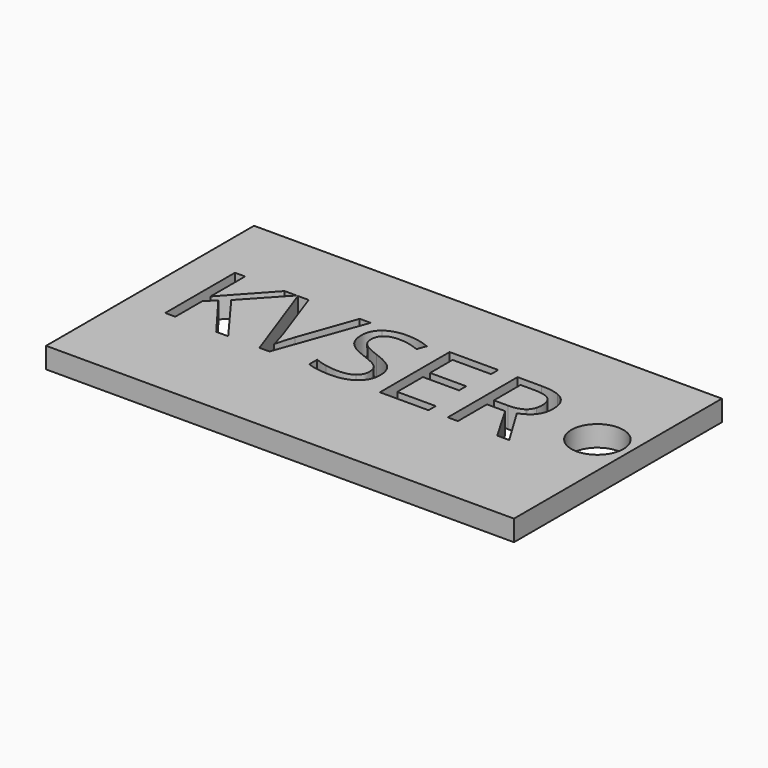
from build123d import *

# Parameters (mm, degrees)
F1_DEPTH = 2.54
F0_W     = 57.15
F0_H     = 31.75
F0_R     = 3.175


with BuildPart() as f1:
    # F0 (on Top) → F1 (new body)
    with BuildSketch(Plane.XY):
        with BuildLine():
            Line((-18.2756781968, 20.786606901), (-18.2756781968, 19.4800253958))
            Line((-18.2756781968, 19.4800253958), (-18.2756781968, 18.3623470366))
            Line((-18.2756781968, 18.3623470366), (-18.2756781968, 16.7147622153))
            Line((-18.2756781968, 16.7147622153), (-16.5765512501, 16.7147622153))
            add(Edge.make_bspline(
                [(-16.5765512501, 16.7147622153), (-15.3293934084, 16.7147622153), (-14.7150388735, 17.1869877213)],
                knots=[0, 0, 0, 0.9521092994, 0.9521092994, 0.9521092994], degree=2))
            add(Edge.make_bspline(
                [(-14.7150388735, 17.1869877213), (-14.6841370967, 17.2107404673), (-14.6548363426, 17.2356879665)],
                knots=[0.9521092994, 0.9521092994, 0.9521092994, 1, 1, 1], degree=2))
            add(Edge.make_bspline(
                [(-14.6548363426, 17.2356879665), (-14.2795364488, 17.555229019), (-14.1344492538, 18.0707797408)],
                knots=[0, 0, 0, 0.613409976, 0.613409976, 0.613409976], degree=2))
            add(Edge.make_bspline(
                [(-14.1344492538, 18.0707797408), (-14.043010796, 18.3956958226), (-14.043010796, 18.7984652199)],
                knots=[0.613409976, 0.613409976, 0.613409976, 1, 1, 1], degree=2))
            add(Edge.make_bspline(
                [(-14.043010796, 18.7984652199), (-14.043010796, 19.4699240171), (-14.2946946146, 19.9028959001)],
                knots=[0, 0, 0, 0.6359498468, 0.6359498468, 0.6359498468], degree=2))
            add(Edge.make_bspline(
                [(-14.2946946146, 19.9028959001), (-14.4387712791, 20.1507511062), (-14.6653247806, 20.3204541035)],
                knots=[0.6359498468, 0.6359498468, 0.6359498468, 1, 1, 1], degree=2))
            add(Edge.make_bspline(
                [(-14.6653247806, 20.3204541035), (-14.8932302371, 20.4911698013), (-15.2224180123, 20.5993655494)],
                knots=[0, 0, 0, 0.3662226179, 0.3662226179, 0.3662226179], degree=2))
            add(Edge.make_bspline(
                [(-15.2224180123, 20.5993655494), (-15.7921036522, 20.786606901), (-16.6651202816, 20.786606901)],
                knots=[0.3662226179, 0.3662226179, 0.3662226179, 1, 1, 1], degree=2))
            Line((-16.6651202816, 20.786606901), (-18.2756781968, 20.786606901))
        make_face()
    extrude(amount=F1_DEPTH)


with BuildPart() as f1b:
    # F0 (on Top) → F1, piece 2 (new body)
    with BuildSketch(Plane.XY):
        with Locations((-30.0933175445, 14.7100100294)):
            Rectangle(F0_W, F0_H)
        Polygon((-50.7805127623, 17.2461764044), (-46.3380766027, 11.2234822615), (-47.7948040947, 11.2234822615), (-51.6755261334, 16.3884552571), (-52.7919620833, 15.3978805626), (-52.7919620833, 11.2234822615), (-54.0295977605, 11.2234822615), (-54.0295977605, 21.872742919), (-52.7919620833, 21.872742919), (-52.7919620833, 16.591231724), (-47.9626191018, 21.872742919), (-46.4988993178, 21.872742919), align=None, mode=Mode.SUBTRACT)
        with BuildLine():
            Line((-41.2243804148, 15.0249583246), (-38.7910628121, 21.872742919))
            Line((-38.7910628121, 21.872742919), (-37.4601965754, 21.872742919))
            Line((-37.4601965754, 21.872742919), (-41.2966340984, 11.2234822615))
            Line((-41.2966340984, 11.2234822615), (-42.5202851917, 11.2234822615))
            Line((-42.5202851917, 11.2234822615), (-46.3380766027, 21.872742919))
            Line((-46.3380766027, 21.872742919), (-45.0258564779, 21.872742919))
            Line((-45.0258564779, 21.872742919), (-42.5785542914, 14.9830045728))
            add(Edge.make_bspline(
                [(-42.5785542914, 14.9830045728), (-42.1566860097, 13.7943149394), (-41.909625027, 12.6732174615)],
                knots=[0, 0, 0, 1, 1, 1], degree=2))
            add(Edge.make_bspline(
                [(-41.909625027, 12.6732174615), (-41.6462486965, 13.852584039), (-41.2243804148, 15.0249583246)],
                knots=[0, 0, 0, 1, 1, 1], degree=2))
        make_face(mode=Mode.SUBTRACT)
        with BuildLine():
            add(Edge.make_bspline(
                [(-30.617073509, 15.8337334282), (-29.9877672325, 15.1484888159), (-29.9877672325, 14.0576912699)],
                knots=[0, 0, 0, 1, 1, 1], degree=2))
            add(Edge.make_bspline(
                [(-29.9877672325, 14.0576912699), (-29.9877672325, 12.6522405856), (-31.0074764769, 11.8644423579)],
                knots=[0, 0, 0, 1, 1, 1], degree=2))
            add(Edge.make_bspline(
                [(-31.0074764769, 11.8644423579), (-32.0271857213, 11.0766441303), (-33.7752587117, 11.0766441303)],
                knots=[0, 0, 0, 1, 1, 1], degree=2))
            add(Edge.make_bspline(
                [(-33.7752587117, 11.0766441303), (-35.6678390693, 11.0766441303), (-36.6887136957, 11.5661045676)],
                knots=[0, 0, 0, 1, 1, 1], degree=2))
            Line((-36.6887136957, 11.5661045676), (-36.6887136957, 12.759455729))
            add(Edge.make_bspline(
                [(-36.6887136957, 12.759455729), (-36.0314382513, 12.4844255785), (-35.2599553715, 12.3236028634)],
                knots=[0, 0, 0, 1, 1, 1], degree=2))
            add(Edge.make_bspline(
                [(-35.2599553715, 12.3236028634), (-34.4884724918, 12.1627801483), (-33.7309741959, 12.1627801483)],
                knots=[0, 0, 0, 1, 1, 1], degree=2))
            add(Edge.make_bspline(
                [(-33.7309741959, 12.1627801483), (-32.4933385187, 12.1627801483), (-31.8663630062, 12.6324290917)],
                knots=[0, 0, 0, 1, 1, 1], degree=2))
            add(Edge.make_bspline(
                [(-31.8663630062, 12.6324290917), (-31.2393874936, 13.1020780352), (-31.2393874936, 13.9411530705)],
                knots=[0, 0, 0, 1, 1, 1], degree=2))
            add(Edge.make_bspline(
                [(-31.2393874936, 13.9411530705), (-31.2393874936, 14.4935441355), (-31.4619754544, 14.8466548796)],
                knots=[0, 0, 0, 1, 1, 1], degree=2))
            add(Edge.make_bspline(
                [(-31.4619754544, 14.8466548796), (-31.6845634152, 15.1997656236), (-32.2054891663, 15.499268796)],
                knots=[0, 0, 0, 1, 1, 1], degree=2))
            add(Edge.make_bspline(
                [(-32.2054891663, 15.499268796), (-32.7264149174, 15.7987719684), (-33.7892432956, 16.1763557343)],
                knots=[0, 0, 0, 1, 1, 1], degree=2))
            add(Edge.make_bspline(
                [(-33.7892432956, 16.1763557343), (-35.2739399555, 16.7077699234), (-35.911403906, 17.4361336694)],
                knots=[0, 0, 0, 1, 1, 1], degree=2))
            add(Edge.make_bspline(
                [(-35.911403906, 17.4361336694), (-36.5488678565, 18.1644974154), (-36.5488678565, 19.3368717009)],
                knots=[0, 0, 0, 1, 1, 1], degree=2))
            add(Edge.make_bspline(
                [(-36.5488678565, 19.3368717009), (-36.5488678565, 20.5675150862), (-35.6247199355, 21.2958788322)],
                knots=[0, 0, 0, 1, 1, 1], degree=2))
            add(Edge.make_bspline(
                [(-35.6247199355, 21.2958788322), (-34.7005720146, 22.0242425782), (-33.176252367, 22.0242425782)],
                knots=[0, 0, 0, 1, 1, 1], degree=2))
            add(Edge.make_bspline(
                [(-33.176252367, 22.0242425782), (-31.5890020917, 22.0242425782), (-30.255805091, 21.4415515814)],
                knots=[0, 0, 0, 1, 1, 1], degree=2))
            Line((-30.255805091, 21.4415515814), (-30.6427119129, 20.3647386193))
            add(Edge.make_bspline(
                [(-30.6427119129, 20.3647386193), (-31.9619243296, 20.9171296843), (-33.2065522988, 20.9171296843)],
                knots=[0, 0, 0, 1, 1, 1], degree=2))
            add(Edge.make_bspline(
                [(-33.2065522988, 20.9171296843), (-34.1901347014, 20.9171296843), (-34.7436911484, 20.4952614026)],
                knots=[0, 0, 0, 1, 1, 1], degree=2))
            add(Edge.make_bspline(
                [(-34.7436911484, 20.4952614026), (-35.2972475953, 20.0733931209), (-35.2972475953, 19.322887117)],
                knots=[0, 0, 0, 1, 1, 1], degree=2))
            add(Edge.make_bspline(
                [(-35.2972475953, 19.322887117), (-35.2972475953, 18.770496052), (-35.0933057464, 18.416219926)],
                knots=[0, 0, 0, 1, 1, 1], degree=2))
            add(Edge.make_bspline(
                [(-35.0933057464, 18.416219926), (-34.8893638976, 18.0619437999), (-34.4045649882, 17.7671021555)],
                knots=[0, 0, 0, 1, 1, 1], degree=2))
            add(Edge.make_bspline(
                [(-34.4045649882, 17.7671021555), (-33.9197660789, 17.4722605112), (-32.9221990924, 17.1156536211)],
                knots=[0, 0, 0, 1, 1, 1], degree=2))
            add(Edge.make_bspline(
                [(-32.9221990924, 17.1156536211), (-31.2463797856, 16.5189780404), (-30.617073509, 15.8337334282)],
                knots=[0, 0, 0, 1, 1, 1], degree=2))
        make_face(mode=Mode.SUBTRACT)
        Polygon((-21.872047029, 12.3305951554), (-21.872047029, 11.2234822615), (-27.8085029044, 11.2234822615), (-27.8085029044, 21.872742919), (-21.872047029, 21.872742919), (-21.872047029, 20.772622317), (-26.5708672272, 20.772622317), (-26.5708672272, 17.3417377279), (-22.1564002355, 17.3417377279), (-22.1564002355, 16.2486094179), (-26.5708672272, 16.2486094179), (-26.5708672272, 12.3305951554), align=None, mode=Mode.SUBTRACT)
        with BuildLine():
            Line((-19.513313874, 18.3623470366), (-19.513313874, 19.4800253958))
            Line((-19.513313874, 19.4800253958), (-19.513313874, 21.872742919))
            Line((-19.513313874, 21.872742919), (-16.592866598, 21.872742919))
            add(Edge.make_bspline(
                [(-16.592866598, 21.872742919), (-15.2285621267, 21.872742919), (-14.3604969989, 21.509172797)],
                knots=[0, 0, 0, 0.696012449, 0.696012449, 0.696012449], degree=2))
            add(Edge.make_bspline(
                [(-14.3604969989, 21.509172797), (-13.9813644234, 21.3503813973), (-13.6968923439, 21.1222369151)],
                knots=[0.696012449, 0.696012449, 0.696012449, 1, 1, 1], degree=2))
            add(Edge.make_bspline(
                [(-13.6968923439, 21.1222369151), (-13.458971, 20.9314257751), (-13.2815395692, 20.6916501974)],
                knots=[0, 0, 0, 0.2542433226, 0.2542433226, 0.2542433226], degree=2))
            add(Edge.make_bspline(
                [(-13.2815395692, 20.6916501974), (-12.761090603, 19.9883308877), (-12.761090603, 18.8637266115)],
                knots=[0.2542433226, 0.2542433226, 0.2542433226, 1, 1, 1], degree=2))
            add(Edge.make_bspline(
                [(-12.761090603, 18.8637266115), (-12.761090603, 18.4396658515), (-12.8474713572, 18.0707797408)],
                knots=[0, 0, 0, 0.2008175159, 0.2008175159, 0.2008175159], degree=2))
            add(Edge.make_bspline(
                [(-12.8474713572, 18.0707797408), (-13.0378542721, 17.2577558946), (-13.6478405422, 16.7127485549)],
                knots=[0.2008175159, 0.2008175159, 0.2008175159, 0.6434186993, 0.6434186993, 0.6434186993], degree=2))
            add(Edge.make_bspline(
                [(-13.6478405422, 16.7127485549), (-14.1392755083, 16.2736638137), (-14.9030627073, 16.0085407272)],
                knots=[0.6434186993, 0.6434186993, 0.6434186993, 1, 1, 1], degree=2))
            Line((-14.9030627073, 16.0085407272), (-12.0105845992, 11.2234822615))
            Line((-12.0105845992, 11.2234822615), (-13.4743043831, 11.2234822615))
            Line((-13.4743043831, 11.2234822615), (-16.052129353, 15.6519338372))
            Line((-16.052129353, 15.6519338372), (-18.2756781968, 15.6519338372))
            Line((-18.2756781968, 15.6519338372), (-18.2756781968, 11.2234822615))
            Line((-18.2756781968, 11.2234822615), (-19.513313874, 11.2234822615))
            Line((-19.513313874, 11.2234822615), (-19.513313874, 18.3623470366))
        make_face(mode=Mode.SUBTRACT)
        with Locations((-5.525982473, 16.5779478848)):
            Circle(F0_R, mode=Mode.SUBTRACT)
    extrude(amount=F1_DEPTH)


solid = Compound([f1.part, f1b.part])
